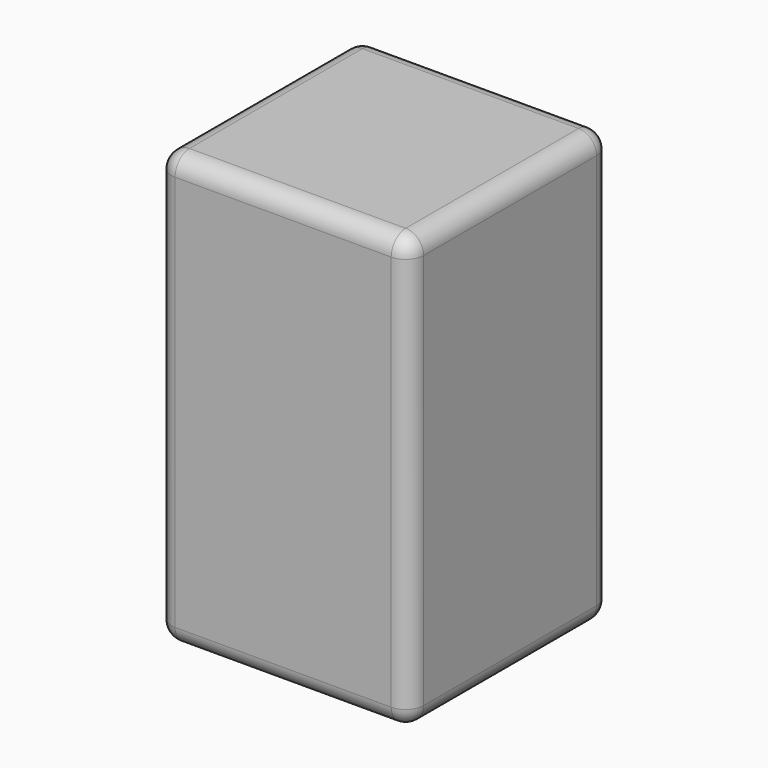
from build123d import *

# Parameters (mm, degrees)
F1_DEPTH = 120
F2_R     = 5


with BuildPart() as f1:
    # F0 (on Top) → F1 (new body)
    with BuildSketch(Plane.XY):
        with BuildLine():
            Line((-30, -34.8162889995), (30, -34.8162889995))
            ThreePointArc((30, -34.8162889995), (33.5355339059, -33.3518229055), (35, -29.8162889995))
            Line((35, -29.8162889995), (35, 30.1837110005))
            ThreePointArc((35, 30.1837110005), (33.5355339059, 33.7192449064), (30, 35.1837110005))
            Line((30, 35.1837110005), (-30, 35.1837110005))
            ThreePointArc((-30, 35.1837110005), (-33.5355339059, 33.7192449064), (-35, 30.1837110005))
            Line((-35, 30.1837110005), (-35, -29.8162889995))
            ThreePointArc((-35, -29.8162889995), (-33.5355339059, -33.3518229055), (-30, -34.8162889995))
        make_face()
    extrude(amount=F1_DEPTH)

    # F2
    f2_edges = [f1.edges().sort_by_distance(p)[0] for p in [
        (-35, 0.183711, 120),
        (-33.535534, -33.351823, 120),
        (0, -34.816289, 120),
        (33.535534, -33.351823, 120),
        (35, 0.183711, 120),
        (33.535534, 33.719245, 120),
        (0, 35.183711, 120),
        (-33.535534, 33.719245, 120),
        (-35, 0.183711, 0),
        (-33.535534, -33.351823, 0),
        (0, -34.816289, 0),
        (33.535534, -33.351823, 0),
        (35, 0.183711, 0),
        (33.535534, 33.719245, 0),
        (0, 35.183711, 0),
        (-33.535534, 33.719245, 0),
    ]]
    fillet(f2_edges, radius=F2_R)


solid = f1.part
